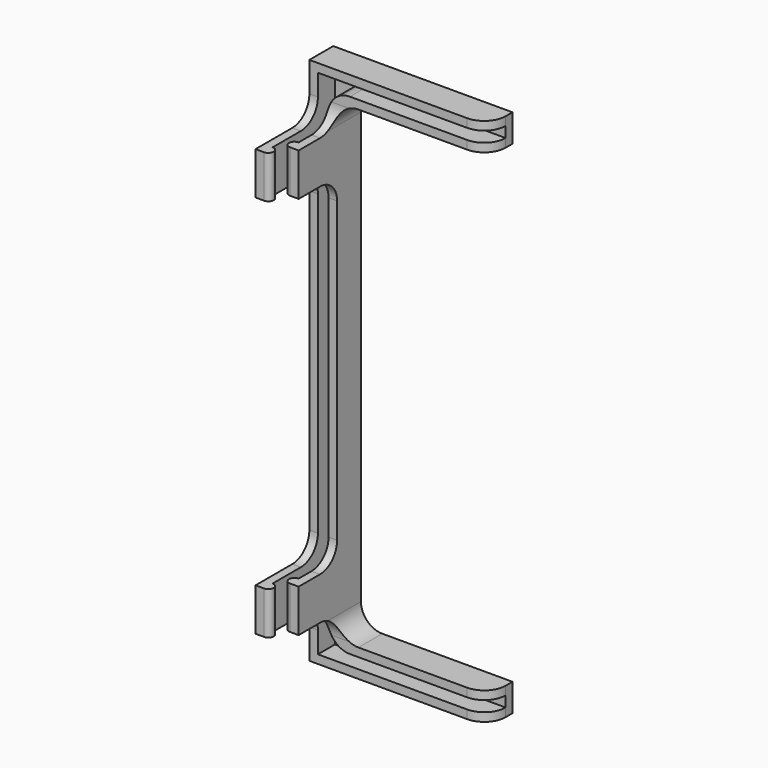
from build123d import *

# Parameters (mm, degrees)
F10_R = 5
F11_R = 5
F12_R = 5


with BuildPart() as f2:
    # F2: sweep along a path in F1
    with BuildLine(Plane.XZ) as f2_path:
        Line((40, 0), (0, 0))
        Line((0, 0), (0, 120))
        Line((0, 120), (40, 120))
    # F0 (on Top) → F2 (sweep)
    with BuildSketch(Plane.XY):
        Polygon((-2, 13.2655382454), (0, 13.2655382454), (0, 18.2655382454), (2.5, 18.2655382454), (2.5, 13.2655382454), (4.5, 13.2655382454), (4.5, 20.2655382454), (-2, 20.2655382454), align=None)
    sweep(path=f2_path.line, transition=Transition.RIGHT)

    # F8: sweep along a path in F3
    with BuildLine(Plane.XZ) as f8_path:
        Line((0, 10), (0, 20))
    # F6 (on plane+point) → F8 (sweep)
    with BuildSketch(Plane.XY.offset(10)):
        with BuildLine():
            ThreePointArc((0, -2.5), (1.25, -1.25), (0, 0))
            Line((0, 0), (0, 13.2655382454))
            Line((0, 13.2655382454), (-2, 13.2655382454))
            Line((-2, 13.2655382454), (-2, -2.5))
            Line((-2, -2.5), (0, -2.5))
        make_face()
        with BuildLine():
            Line((4.5, 13.2655382454), (2.5, 13.2655382454))
            Line((2.5, 13.2655382454), (2.5, 4.5))
            ThreePointArc((2.5, 4.5), (1.25, 3.25), (2.5, 2))
            Line((2.5, 2), (4.5, 2))
            Line((4.5, 2), (4.5, 13.2655382454))
        make_face()
    sweep(path=f8_path.line)

    # F9: sweep along a path in F3
    with BuildLine(Plane.XZ) as f9_path:
        Line((0, 110), (0, 100))
    # F7 (on plane+point) → F9 (sweep)
    with BuildSketch(Plane.XY.offset(100)):
        with BuildLine():
            ThreePointArc((0, -2.5), (1.25, -1.25), (0, 0))
            Line((0, 0), (0, 13.2655382454))
            Line((0, 13.2655382454), (-2, 13.2655382454))
            Line((-2, 13.2655382454), (-2, -2.5))
            Line((-2, -2.5), (0, -2.5))
        make_face()
        with BuildLine():
            Line((4.5, 13.2655382454), (2.5, 13.2655382454))
            Line((2.5, 13.2655382454), (2.5, 4.5))
            ThreePointArc((2.5, 4.5), (1.25, 3.25), (2.5, 2))
            Line((2.5, 2), (4.5, 2))
            Line((4.5, 2), (4.5, 13.2655382454))
        make_face()
    sweep(path=f9_path.line)

    # F10
    f10_edges = [f2.edges().sort_by_distance(p)[0] for p in [
        (-1, 13.265538, 10),
        (3.5, 13.265538, 10),
        (-1, 13.265538, 20),
        (3.5, 13.265538, 20),
        (-1, 13.265538, 100),
        (3.5, 13.265538, 100),
        (3.5, 13.265538, 110),
        (-1, 13.265538, 110),
    ]]
    fillet(f10_edges, radius=F10_R)

    # F11
    f11_edges = [f2.edges().sort_by_distance(p)[0] for p in [
        (2.5, 15.765538, 117.5),
        (4.5, 16.765538, 115.5),
        (4.5, 16.765538, 4.5),
        (2.5, 15.765538, 2.5),
    ]]
    fillet(f11_edges, radius=F11_R)

    # F12
    f12_edges = [f2.edges().sort_by_distance(p)[0] for p in [
        (40, 13.265538, -1),
        (40, 13.265538, 3.5),
        (40, 13.265538, 121),
        (40, 13.265538, 116.5),
    ]]
    fillet(f12_edges, radius=F12_R)


solid = f2.part
